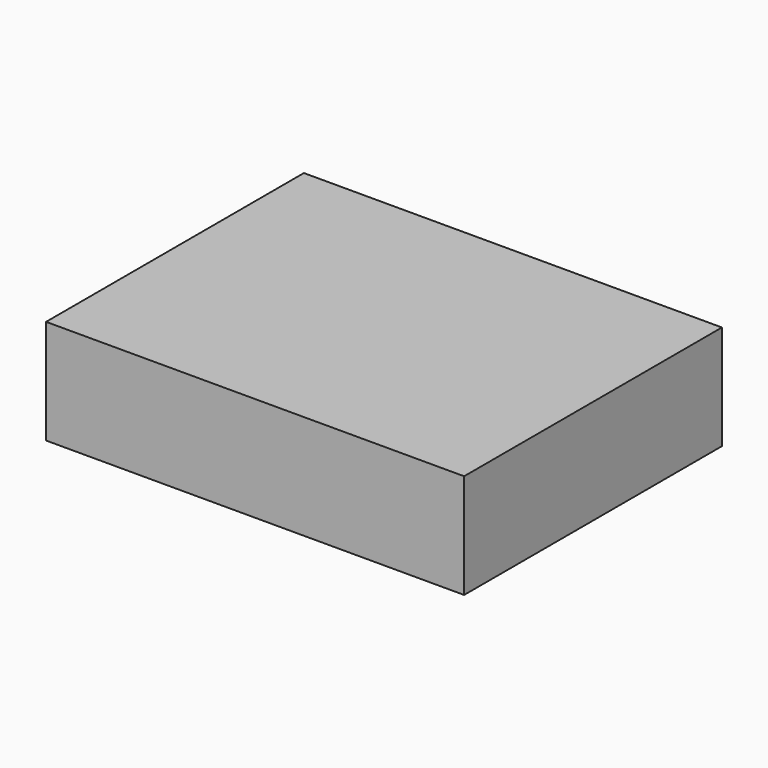
from build123d import *

# Parameters (mm, degrees)
EXTRUDE009_DEPTH           = 20
EXTRUDE009_PLACEMENT_ANGLE = 300
BOX139_W                   = 48
BOX139_H                   = 12
BOX139_DEPTH               = 37
CUT027_PLACEMENT_ANGLE     = 90


with BuildPart() as extrude009:
    # Sketch020 (on Box) → Extrude009 (new body)
    with BuildSketch(Plane.XZ):
        with BuildLine():
            ThreePointArc((7.277422, 6.106482), (0, 9.5), (-7.277422, 6.106482))
            Line((-7.277422, 6.106482), (-5.1708, 4.338816))
            ThreePointArc((5.1708, 4.338816), (0, 6.75), (-5.1708, 4.338816))
            Line((5.1708, 4.338816), (7.277422, 6.106482))
        make_face()
        with BuildLine():
            ThreePointArc((-8.92708, 3.249192), (-8.227241, -4.75), (-1.649658, -9.355674))
            Line((-1.172125, -6.647452), (-1.649658, -9.355674))
            ThreePointArc((-6.342925, 2.308636), (-5.845671, -3.375), (-1.172125, -6.647452))
            Line((-8.92708, 3.249192), (-6.342925, 2.308636))
        make_face()
        with BuildLine():
            ThreePointArc((1.649658, -9.355674), (8.227241, -4.75), (8.92708, 3.249192))
            Line((6.342925, 2.308636), (8.92708, 3.249192))
            ThreePointArc((1.172125, -6.647452), (5.845671, -3.375), (6.342925, 2.308636))
            Line((1.172125, -6.647452), (1.649658, -9.355674))
        make_face()
    extrude(amount=EXTRUDE009_DEPTH)


with BuildPart() as extrude009_1:
    # Extrude009 placement: moved
    add(extrude009.part.moved(Location((12.4, 2.6, 25.087942))).rotate(Axis((12.4, 2.6, 25.087942), (0, -1, 0)), EXTRUDE009_PLACEMENT_ANGLE))


with BuildPart() as cut027:
    # Box139 → Box139 (new body)
    with BuildSketch(Plane.XY):
        with Locations((24, 6)):
            Rectangle(BOX139_W, BOX139_H)
    extrude(amount=BOX139_DEPTH)

    # Cut027: cut Extrude009
    add(extrude009_1.part, mode=Mode.SUBTRACT)


with BuildPart() as cut027_1:
    # Cut027 placement: moved
    add(cut027.part.moved(Location((-26, 37, 0))).rotate(Axis((-26, 37, 0), (1, 0, 0)), CUT027_PLACEMENT_ANGLE))


solid = cut027_1.part
